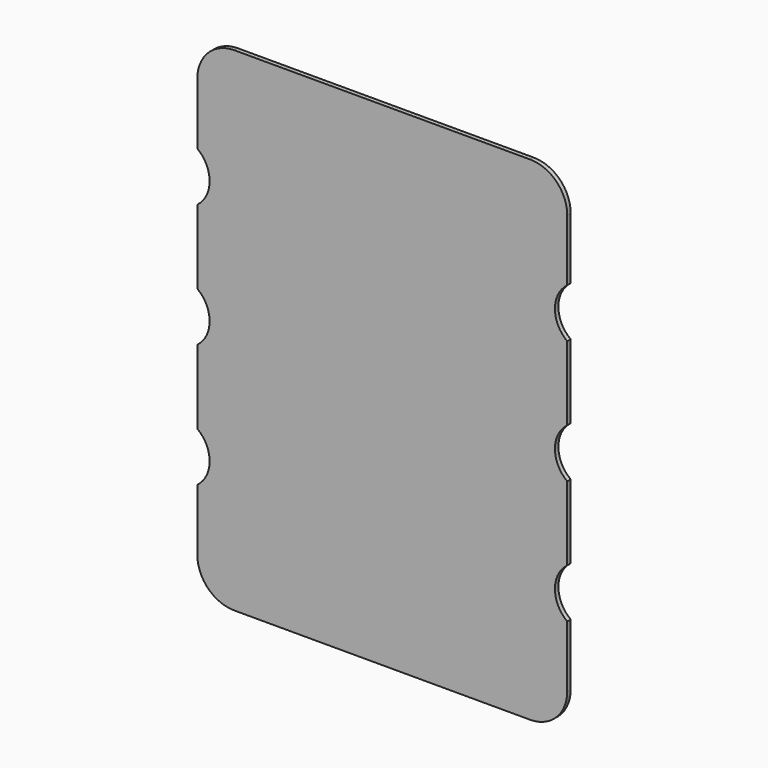
from build123d import *

# Parameters (mm, degrees)
F1_DEPTH = 7
F4_R     = 60


with BuildPart() as f1:
    # F0 (on Front) → F1 (new body)
    with BuildSketch(Plane.XZ):
        with BuildLine():
            Line((-280, 0), (0, 0))
            Line((0, 0), (0, 400))
            Line((0, 400), (-300, 400))
            Line((-300, 400), (-300, 240))
            ThreePointArc((-300, 240), (-285.27864045, 222.360679775), (-280, 200))
            ThreePointArc((-280, 200), (-285.27864045, 177.639320225), (-300, 160))
            Line((-300, 160), (-300, 40))
            ThreePointArc((-300, 40), (-285.27864045, 22.360679775), (-280, 0))
        make_face()
    extrude(amount=F1_DEPTH)

    # F2: F1 across plane


with BuildPart() as f1_1:
    add(f1.part)
    add(f1.part.mirror(Plane.YZ))

    # F3: F1 across plane


with BuildPart() as f1_2:
    add(f1_1.part)
    add(f1_1.part.mirror(Plane.XY))

    # F4
    f4_edges = [f1_2.edges().sort_by_distance(p)[0] for p in [
        (-300, -3.5, 400),
        (300, -3.5, 400),
        (300, -3.5, -400),
        (-300, -3.5, -400),
    ]]
    fillet(f4_edges, radius=F4_R)


solid = f1_2.part
